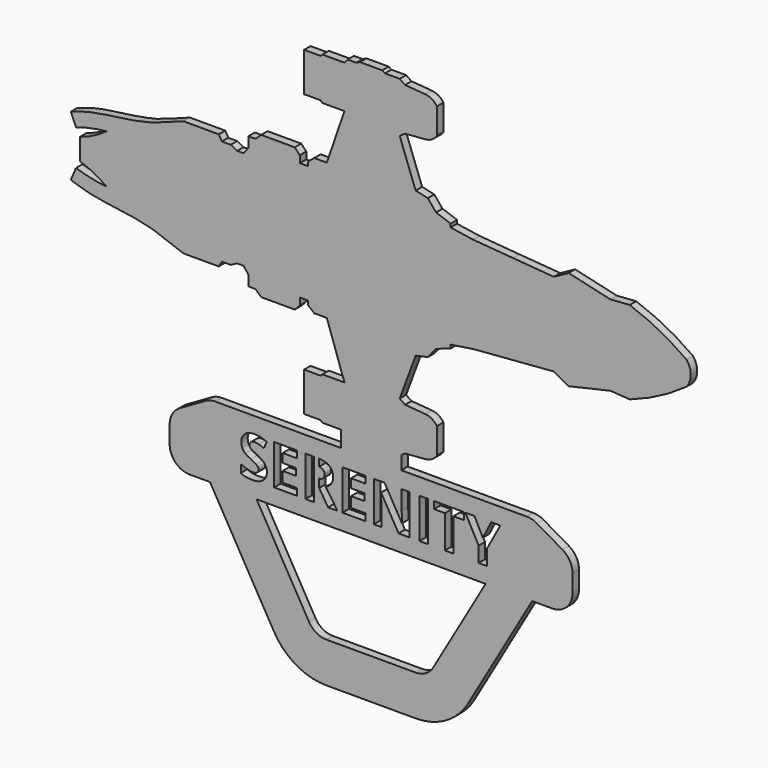
from build123d import *

# Parameters (mm, degrees)
F1_DEPTH       = 2
F2_SCALE       = 1.23
F3_W           = 2.1028645833
F3_H           = 9.9153645833
F4_DEPTH       = 2.46
F5_DEPTH       = 2.46
F6_W           = 1.3
F6_H           = 6.4041536976
F7_DEPTH       = 2.46
F8_R           = 5
F9_R           = 15
F10_W          = 0.46
F10_H          = 138.7505725531
F11_DEPTH      = 59.1700575959
F11_DEPTH_BACK = 94.4995160879


with BuildPart() as f1:
    # F0 (on Front) → F1 (new body)
    with BuildSketch(Plane.XZ):
        with BuildLine():
            Line((10.7373474166, 15.1693224907), (7.5251520611, 23.8336250186))
            Line((7.5251520611, 23.8336250186), (8.6105326191, 24.5744287968))
            Line((8.6105326191, 24.5744287968), (12.67447602, 24.8919036239))
            ThreePointArc((12.67447602, 24.8919036239), (14.0153339509, 25.3120222126), (15.0386774912, 26.2749176472))
            Line((15.0386774912, 26.2749176472), (15.0386774912, 31.5117314458))
            ThreePointArc((15.0386774912, 31.5117314458), (14.0153339509, 32.4746268804), (12.67447602, 32.8947454691))
            Line((12.67447602, 32.8947454691), (8.6105326191, 33.2122202963))
            Line((8.6105326191, 33.2122202963), (7.5251520611, 33.9530240744))
            Line((7.5251520611, 33.9530240744), (4.5539969578, 33.9530240744))
            Line((4.5539969578, 33.9530240744), (4.0063727647, 34.3166925013))
            Line((4.0063727647, 34.3166925013), (-0.4899038468, 34.3166925013))
            Line((-0.4899038468, 34.3166925013), (-1.2392831268, 33.9530240744))
            Line((-1.2392831268, 33.9530240744), (-2.9974428471, 33.9530240744))
            Line((-2.9974428471, 33.9530240744), (-3.57388868, 33.1910997629))
            Line((-3.57388868, 33.1910997629), (-8.0691609163, 33.1910997629))
            Line((-8.0691609163, 33.1910997629), (-8.4264199422, 32.8333564103))
            Line((-8.4264199422, 32.8333564103), (-11.7423711345, 32.8333564103))
            Line((-11.7423711345, 32.8333564103), (-11.7423711345, 24.9532926828))
            Line((-11.7423711345, 24.9532926828), (-8.4264199422, 24.9532926828))
            Line((-8.4264199422, 24.9532926828), (-8.0691609163, 24.5955493301))
            Line((-8.0691609163, 24.5955493301), (-3.57388868, 24.5955493301))
            Line((-3.57388868, 24.5955493301), (-3.9477050304, 23.6535612494))
            Line((-3.9477050304, 23.6535612494), (-7.1594528854, 14.2941614613))
            Line((-7.1594528854, 14.2941614613), (-9.6975984052, 14.2941614613))
            Line((-9.6975984052, 14.2941614613), (-10.9578995034, 13.2670113817))
            Line((-10.9578995034, 13.2670113817), (-10.9578995034, 12.4418511987))
            Line((-10.9578995034, 12.4418511987), (-12.6059856266, 12.4418511987))
            Line((-12.6059856266, 12.4418511987), (-12.6059856266, 13.8494772837))
            Line((-12.6059856266, 13.8494772837), (-13.6239212006, 14.9173317477))
            Line((-13.6239212006, 14.9173317477), (-20.4101577401, 14.9173317477))
            Line((-20.4101577401, 14.9173317477), (-21.5250384063, 13.8494772837))
            Line((-21.5250384063, 13.8494772837), (-22.9792315513, 13.8494772837))
            Line((-22.9792315513, 13.8494772837), (-22.9792315513, 11.7623079568))
            Line((-22.9792315513, 11.7623079568), (-23.9486955106, 10.5002978817))
            Line((-23.9486955106, 10.5002978817), (-25.2574682236, 10.5002978817))
            Line((-25.2574682236, 10.5002978817), (-26.5177711844, 11.1798420548))
            Line((-26.5177711844, 11.1798420548), (-28.3112749457, 11.1798420548))
            Line((-28.3112749457, 11.1798420548), (-28.9414264262, 12.2476965189))
            Line((-28.9414264262, 12.2476965189), (-36.0489413142, 12.2476965189))
            add(Edge.make_bspline(
                [(-36.0489413142, 12.2476965189), (-36.9714870428, 11.9100287517), (-38.8559028465, 11.2202998232), (-41.9498389834, 9.9896677035), (-45.1761258886, 9.2496922791), (-50.1095191572, 8.4853588999), (-53.6625514457, 8.0933726822), (-56.8420329859, 7.2580476877), (-58.1699424612, 6.7813820284), (-58.755479753, 6.5711978823)],
                knots=[0, 0, 0, 0, 0.135911485, 0.2776163201, 0.4220324789, 0.5969986511, 0.7486195456, 0.8891546199, 1, 1, 1, 1], degree=3))
            Line((-58.755479753, 6.5711978823), (-57.7301979065, 4.1353856213))
            ThreePointArc((-57.7301979065, 4.1353856213), (-54.6693550829, 4.9551265809), (-51.5387244523, 5.444908049))
            ThreePointArc((-51.5387244523, 5.444908049), (-54.1342780337, 3.8371195194), (-56.9573156536, 2.6742175687))
            Line((-56.9573156536, 2.6742175687), (-56.9573156536, 0.5219560699))
            Line((-56.9573156536, 0.5219560699), (-56.9573156536, -1.630305429))
            ThreePointArc((-56.9573156536, -1.630305429), (-54.1342780337, -2.7932073796), (-51.5387244523, -4.4009959092))
            ThreePointArc((-51.5387244523, -4.4009959092), (-54.6693550829, -3.9112144412), (-57.7301979065, -3.0914734816))
            Line((-57.7301979065, -3.0914734816), (-58.755479753, -5.5272857426))
            add(Edge.make_bspline(
                [(-36.0489413142, -11.2037843792), (-36.9714870428, -10.866116612), (-38.8559028465, -10.1763876835), (-41.9498389834, -8.9457555638), (-45.1761258886, -8.2057801394), (-50.1095191572, -7.4414467601), (-53.6625514457, -7.0494605425), (-56.8420329859, -6.214135548), (-58.1699424612, -5.7374698887), (-58.755479753, -5.5272857426)],
                knots=[0, 0, 0, 0, 0.135911485, 0.2776163201, 0.4220324789, 0.5969986511, 0.7486195456, 0.8891546199, 1, 1, 1, 1], degree=3))
            Line((-36.0489413142, -11.2037843792), (-28.9414264262, -11.2037843792))
            Line((-28.9414264262, -11.2037843792), (-28.3112749457, -10.1359299151))
            Line((-28.3112749457, -10.1359299151), (-26.5177711844, -10.1359299151))
            Line((-26.5177711844, -10.1359299151), (-25.2574682236, -9.4563857419))
            Line((-25.2574682236, -9.4563857419), (-23.9486955106, -9.4563857419))
            Line((-23.9486955106, -9.4563857419), (-22.9792315513, -10.7183958171))
            Line((-22.9792315513, -10.7183958171), (-22.9792315513, -12.8055651439))
            Line((-22.9792315513, -12.8055651439), (-21.5250384063, -12.8055651439))
            Line((-21.5250384063, -12.8055651439), (-20.4101577401, -13.873419608))
            Line((-20.4101577401, -13.873419608), (-13.6239212006, -13.873419608))
            Line((-13.6239212006, -13.873419608), (-12.6059856266, -12.8055651439))
            Line((-12.6059856266, -12.8055651439), (-12.6059856266, -11.397939059))
            Line((-12.6059856266, -11.397939059), (-10.9578995034, -11.397939059))
            Line((-10.9578995034, -11.397939059), (-10.9578995034, -12.223099242))
            Line((-10.9578995034, -12.223099242), (-9.6975984052, -13.2502493216))
            Line((-9.6975984052, -13.2502493216), (-7.1594528854, -13.2502493216))
            Line((-7.1594528854, -13.2502493216), (-3.9477050304, -22.6096491097))
            Line((-3.9477050304, -22.6096491097), (-3.57388868, -23.5516371904))
            Line((-3.57388868, -23.5516371904), (-8.0691609163, -23.5516371904))
            Line((-8.0691609163, -23.5516371904), (-8.4264199422, -23.909380543))
            Line((-8.4264199422, -23.909380543), (-11.7423711345, -23.909380543))
            Line((-11.7423711345, -23.909380543), (-11.7423711345, -31.7894442705))
            Line((-11.7423711345, -31.7894442705), (-8.4264199422, -31.7894442705))
            Line((-8.4264199422, -31.7894442705), (-8.0691609163, -32.1471876232))
            Line((-8.0691609163, -32.1471876232), (-3.57388868, -32.1471876232))
            Line((-3.57388868, -32.1471876232), (-2.9974428471, -32.9091119347))
            Line((-2.9974428471, -32.9091119347), (-1.2392831268, -32.9091119347))
            Line((-1.2392831268, -32.9091119347), (-0.4899038468, -33.2727803616))
            Line((-0.4899038468, -33.2727803616), (4.0063727647, -33.2727803616))
            Line((4.0063727647, -33.2727803616), (4.5539969578, -32.9091119347))
            Line((4.5539969578, -32.9091119347), (7.5251520611, -32.9091119347))
            Line((7.5251520611, -32.9091119347), (8.6105326191, -32.1683081565))
            Line((8.6105326191, -32.1683081565), (12.67447602, -31.8508333294))
            ThreePointArc((12.67447602, -31.8508333294), (14.0153339509, -31.4307147407), (15.0386774912, -30.4678193061))
            Line((15.0386774912, -30.4678193061), (15.0386774912, -25.2310055075))
            ThreePointArc((15.0386774912, -25.2310055075), (14.0153339509, -24.2681100729), (12.67447602, -23.8479914842))
            Line((12.67447602, -23.8479914842), (8.6105326191, -23.530516657))
            Line((8.6105326191, -23.530516657), (7.5251520611, -22.7897128789))
            Line((7.5251520611, -22.7897128789), (10.7373474166, -14.125410351))
            Line((10.7373474166, -14.125410351), (13.2051967084, -13.5762569262))
            Line((13.2051967084, -13.5762569262), (14.8504283279, -11.5855735494))
            Line((14.8504283279, -11.5855735494), (17.7981350571, -10.5559088988))
            Line((17.7981350571, -10.5559088988), (17.7981350571, -9.8694664193))
            Line((17.7981350571, -9.8694664193), (22.3225262016, -9.1830239398))
            Line((22.3225262016, -9.1830239398), (30.3363185376, -8.5365566192))
            Line((30.3363185376, -8.5365566192), (38.5700128973, -7.8834983287))
            Line((38.5700128973, -7.8834983287), (41.5863208473, -9.5161431236))
            Line((41.5863208473, -9.5161431236), (50.0276403394, -7.5836841715))
            Line((50.0276403394, -7.5836841715), (53.8872107863, -7.8582622809))
            ThreePointArc((53.8872107863, -7.8582622809), (59.8289497909, -5.3017052179), (65.3275698423, -1.8950317753))
            ThreePointArc((65.3275698423, -1.8950317753), (65.9684585009, -0.762507411), (66.1770328879, 0.5219560699))
            ThreePointArc((66.1770328879, 0.5219560699), (65.9684585009, 1.8064195507), (65.3275698423, 2.9389439151))
            ThreePointArc((65.3275698423, 2.9389439151), (59.8289497909, 6.3456173576), (53.8872107863, 8.9021744207))
            Line((53.8872107863, 8.9021744207), (50.0276403394, 8.6275963113))
            Line((50.0276403394, 8.6275963113), (41.5863208473, 10.5600552633))
            Line((41.5863208473, 10.5600552633), (38.5700128973, 8.9274104685))
            Line((38.5700128973, 8.9274104685), (30.3363185376, 9.5804687589))
            Line((30.3363185376, 9.5804687589), (22.3225262016, 10.2269360796))
            Line((22.3225262016, 10.2269360796), (17.7981350571, 10.9133785591))
            Line((17.7981350571, 10.9133785591), (17.7981350571, 11.5998210385))
            Line((17.7981350571, 11.5998210385), (14.8504283279, 12.6294856891))
            Line((14.8504283279, 12.6294856891), (13.2051967084, 14.6201690659))
            Line((13.2051967084, 14.6201690659), (10.7373474166, 15.1693224907))
        make_face()
    extrude(amount=F1_DEPTH)


with BuildPart() as f1_1:
    # F2: moved
    add(f1.part.scale(F2_SCALE).moved(Location((13.1001826003, 0.46, 0.3749702487))))

    # F3 (on face) → F4 (join, through all)
    with BuildSketch(Plane.XZ.offset(2)):
        Polygon((-13.1274666175, -61.1660705279), (-24.6744720013, -61.1660705279), (-4.4672125796, -96.1660705279), (34.9928345493, -96.1660705279), (55.200093971, -61.1660705279), (43.6530885872, -61.1660705279), (29.2193318574, -86.1660705279), (1.3062901123, -86.1660705279), align=None)
        Polygon((22.7628109849, -43.1660705279), (7.7628109849, -43.1660705279), (-24.6744720013, -43.1660705279), (-34.6744720013, -48.9395732198), (-34.6744720013, -61.1660705279), (-24.6744720013, -61.1660705279), (-13.1274666175, -61.1660705279), (43.6530885872, -61.1660705279), (55.200093971, -61.1660705279), (65.200093971, -61.1660705279), (65.200093971, -48.9395732198), (55.200093971, -43.1660705279), align=None)
        with BuildLine():
            add(Edge.make_bspline(
                [(-11.0891855429, -52.7747944862), (-10.5737775568, -53.4421121945), (-10.5737775568, -54.4121642779)],
                knots=[0, 0, 0, 1, 1, 1], degree=2))
            add(Edge.make_bspline(
                [(-10.5737775568, -54.4121642779), (-10.5737775568, -55.7554802501), (-11.5405744318, -56.529134764)],
                knots=[0, 0, 0, 1, 1, 1], degree=2))
            add(Edge.make_bspline(
                [(-11.5405744318, -56.529134764), (-12.5073713068, -57.3027892779), (-14.2282914457, -57.3027892779)],
                knots=[0, 0, 0, 1, 1, 1], degree=2))
            add(Edge.make_bspline(
                [(-14.2282914457, -57.3027892779), (-15.8168331124, -57.3027892779), (-17.0364511679, -56.7038309445)],
                knots=[0, 0, 0, 1, 1, 1], degree=2))
            Line((-17.0364511679, -56.7038309445), (-17.0364511679, -54.7507059445))
            add(Edge.make_bspline(
                [(-17.0364511679, -54.7507059445), (-16.0338470013, -55.1999246945), (-15.3383174874, -55.3822163612)],
                knots=[0, 0, 0, 1, 1, 1], degree=2))
            add(Edge.make_bspline(
                [(-15.3383174874, -55.3822163612), (-14.6427879735, -55.5645080279), (-14.065531029, -55.5645080279)],
                knots=[0, 0, 0, 1, 1, 1], degree=2))
            add(Edge.make_bspline(
                [(-14.065531029, -55.5645080279), (-13.3754268624, -55.5645080279), (-13.0054181818, -55.3008361529)],
                knots=[0, 0, 0, 1, 1, 1], degree=2))
            add(Edge.make_bspline(
                [(-13.0054181818, -55.3008361529), (-12.6354095013, -55.0371642779), (-12.6354095013, -54.5141608056)],
                knots=[0, 0, 0, 1, 1, 1], degree=2))
            add(Edge.make_bspline(
                [(-12.6354095013, -54.5141608056), (-12.6354095013, -54.2233621945), (-12.7981699179, -53.9954976112)],
                knots=[0, 0, 0, 1, 1, 1], degree=2))
            add(Edge.make_bspline(
                [(-12.7981699179, -53.9954976112), (-12.9609303346, -53.7676330279), (-13.2766855429, -53.5582146251)],
                knots=[0, 0, 0, 1, 1, 1], degree=2))
            add(Edge.make_bspline(
                [(-13.2766855429, -53.5582146251), (-13.5924407513, -53.3487962223), (-14.5624928346, -52.886556639)],
                knots=[0, 0, 0, 1, 1, 1], degree=2))
            add(Edge.make_bspline(
                [(-14.5624928346, -52.886556639), (-15.4696108901, -52.4590392779), (-15.9242549874, -52.066244139)],
                knots=[0, 0, 0, 1, 1, 1], degree=2))
            add(Edge.make_bspline(
                [(-15.9242549874, -52.066244139), (-16.3788990846, -51.6734490001), (-16.6501664457, -51.1504455279)],
                knots=[0, 0, 0, 1, 1, 1], degree=2))
            add(Edge.make_bspline(
                [(-16.6501664457, -51.1504455279), (-16.9214338068, -50.6274420556), (-16.9214338068, -49.9308274723)],
                knots=[0, 0, 0, 1, 1, 1], degree=2))
            add(Edge.make_bspline(
                [(-16.9214338068, -49.9308274723), (-16.9214338068, -48.6135531668), (-16.0295067235, -47.8616000418)],
                knots=[0, 0, 0, 1, 1, 1], degree=2))
            add(Edge.make_bspline(
                [(-16.0295067235, -47.8616000418), (-15.1375796401, -47.1096469168), (-13.5642289457, -47.1096469168)],
                knots=[0, 0, 0, 1, 1, 1], degree=2))
            add(Edge.make_bspline(
                [(-13.5642289457, -47.1096469168), (-12.7916595013, -47.1096469168), (-12.0896195707, -47.2919385834)],
                knots=[0, 0, 0, 1, 1, 1], degree=2))
            add(Edge.make_bspline(
                [(-12.0896195707, -47.2919385834), (-11.3875796401, -47.4742302501), (-10.6215206124, -47.8062615001)],
                knots=[0, 0, 0, 1, 1, 1], degree=2))
            Line((-10.6215206124, -47.8062615001), (-11.2986039457, -49.4425462223))
            add(Edge.make_bspline(
                [(-11.2986039457, -49.4425462223), (-12.092874779, -49.117025389), (-12.6115379735, -48.9879021251)],
                knots=[0, 0, 0, 1, 1, 1], degree=2))
            add(Edge.make_bspline(
                [(-12.6115379735, -48.9879021251), (-13.1302011679, -48.8587788612), (-13.6315032513, -48.8587788612)],
                knots=[0, 0, 0, 1, 1, 1], degree=2))
            add(Edge.make_bspline(
                [(-13.6315032513, -48.8587788612), (-14.2282914457, -48.8587788612), (-14.5473018624, -49.136556639)],
                knots=[0, 0, 0, 1, 1, 1], degree=2))
            add(Edge.make_bspline(
                [(-14.5473018624, -49.136556639), (-14.866312279, -49.4143344168), (-14.866312279, -49.8613830279)],
                knots=[0, 0, 0, 1, 1, 1], degree=2))
            add(Edge.make_bspline(
                [(-14.866312279, -49.8613830279), (-14.866312279, -50.1391608056), (-14.7371890151, -50.3464090695)],
                knots=[0, 0, 0, 1, 1, 1], degree=2))
            add(Edge.make_bspline(
                [(-14.7371890151, -50.3464090695), (-14.6080657513, -50.5536573334), (-14.3270327651, -50.7467996945)],
                knots=[0, 0, 0, 1, 1, 1], degree=2))
            add(Edge.make_bspline(
                [(-14.3270327651, -50.7467996945), (-14.045999779, -50.9399420556), (-12.9956525568, -51.441244139)],
                knots=[0, 0, 0, 1, 1, 1], degree=2))
            add(Edge.make_bspline(
                [(-12.9956525568, -51.441244139), (-11.604593529, -52.1074767779), (-11.0891855429, -52.7747944862)],
                knots=[0, 0, 0, 1, 1, 1], degree=2))
        make_face(mode=Mode.SUBTRACT)
        Polygon((-3.0672671401, -55.4299594168), (-3.0672671401, -57.1660705279), (-8.7769025568, -57.1660705279), (-8.7769025568, -47.2507059445), (-3.0672671401, -47.2507059445), (-3.0672671401, -48.9737962223), (-6.6740379735, -48.9737962223), (-6.6740379735, -51.1504455279), (-3.3168331124, -51.1504455279), (-3.3168331124, -52.8735358056), (-6.6740379735, -52.8735358056), (-6.6740379735, -55.4299594168), align=None, mode=Mode.SUBTRACT)
        with BuildLine():
            Line((2.2213613321, -53.3618170556), (1.1037398043, -53.3618170556))
            Line((1.1037398043, -53.3618170556), (1.1037398043, -57.1660705279))
            Line((1.1037398043, -57.1660705279), (-0.999124779, -57.1660705279))
            Line((-0.999124779, -57.1660705279), (-0.999124779, -47.2507059445))
            Line((-0.999124779, -47.2507059445), (1.8893300821, -47.2507059445))
            add(Edge.make_bspline(
                [(1.8893300821, -47.2507059445), (3.9118995265, -47.2507059445), (4.8808665404, -47.9863830279)],
                knots=[0, 0, 0, 1, 1, 1], degree=2))
            add(Edge.make_bspline(
                [(4.8808665404, -47.9863830279), (5.8498335543, -48.7220601112), (5.8498335543, -50.2216260834)],
                knots=[0, 0, 0, 1, 1, 1], degree=2))
            add(Edge.make_bspline(
                [(5.8498335543, -50.2216260834), (5.8498335543, -51.0961920556), (5.3691477904, -51.7776156668)],
                knots=[0, 0, 0, 1, 1, 1], degree=2))
            add(Edge.make_bspline(
                [(5.3691477904, -51.7776156668), (4.8884620265, -52.4590392779), (4.0052154987, -52.8453240001)],
                knots=[0, 0, 0, 1, 1, 1], degree=2))
            add(Edge.make_bspline(
                [(4.0052154987, -52.8453240001), (6.2447988321, -56.1895080279), (6.9218821654, -57.1660705279)],
                knots=[0, 0, 0, 1, 1, 1], degree=2))
            Line((6.9218821654, -57.1660705279), (4.5889828599, -57.1660705279))
            Line((4.5889828599, -57.1660705279), (2.2213613321, -53.3618170556))
        make_face(mode=Mode.SUBTRACT)
        Polygon((13.8793474432, -55.4299594168), (13.8793474432, -57.1660705279), (8.1697120265, -57.1660705279), (8.1697120265, -47.2507059445), (13.8793474432, -47.2507059445), (13.8793474432, -48.9737962223), (10.2725766099, -48.9737962223), (10.2725766099, -51.1504455279), (13.629781471, -51.1504455279), (13.629781471, -52.8735358056), (10.2725766099, -52.8735358056), (10.2725766099, -55.4299594168), align=None, mode=Mode.SUBTRACT)
        with BuildLine():
            Line((24.743062721, -47.2507059445), (24.743062721, -57.1660705279))
            Line((24.743062721, -57.1660705279), (22.0716217487, -57.1660705279))
            Line((22.0716217487, -57.1660705279), (17.7573856376, -49.6660705279))
            Line((17.7573856376, -49.6660705279), (17.6966217487, -49.6660705279))
            add(Edge.make_bspline(
                [(17.6966217487, -49.6660705279), (17.8268300821, -51.6517476112), (17.8268300821, -52.5002719168)],
                knots=[0, 0, 0, 1, 1, 1], degree=2))
            Line((17.8268300821, -52.5002719168), (17.8268300821, -57.1660705279))
            Line((17.8268300821, -57.1660705279), (15.9474898043, -57.1660705279))
            Line((15.9474898043, -57.1660705279), (15.9474898043, -47.2507059445))
            Line((15.9474898043, -47.2507059445), (18.5993995265, -47.2507059445))
            Line((18.5993995265, -47.2507059445), (22.9049550821, -54.6769212223))
            Line((22.9049550821, -54.6769212223), (22.9526981376, -54.6769212223))
            add(Edge.make_bspline(
                [(22.9526981376, -54.6769212223), (22.8507016099, -52.7433274723), (22.8507016099, -51.9447163612)],
                knots=[0, 0, 0, 1, 1, 1], degree=2))
            Line((22.8507016099, -51.9447163612), (22.8507016099, -47.2507059445))
            Line((22.8507016099, -47.2507059445), (24.743062721, -47.2507059445))
        make_face(mode=Mode.SUBTRACT)
        with Locations((28.2901547349, -52.2083882362)):
            Rectangle(F3_W, F3_H, mode=Mode.SUBTRACT)
        Polygon((35.6632016099, -48.999837889), (35.6632016099, -57.1660705279), (33.5603370265, -57.1660705279), (33.5603370265, -48.999837889), (30.8671946654, -48.999837889), (30.8671946654, -47.2507059445), (38.3541738321, -47.2507059445), (38.3541738321, -48.999837889), align=None, mode=Mode.SUBTRACT)
        Polygon((40.9105974432, -47.2507059445), (42.965718971, -51.3327371945), (45.0338613321, -47.2507059445), (47.2994863321, -47.2507059445), (44.0095557765, -53.3075635834), (44.0095557765, -57.1660705279), (41.9218821654, -57.1660705279), (41.9218821654, -53.374837889), (38.6319516099, -47.2507059445), align=None, mode=Mode.SUBTRACT)
        Polygon((8.704299524, -39.1660705279), (7.7628109849, -39.1660705279), (7.7628109849, -43.1660705279), (22.7628109849, -43.1660705279), (22.7628109849, -39.8256587643), (22.3561196355, -40.103237431), (18.7015988585, -40.103237431), (18.0280211009, -40.5505495961), (12.4976008688, -40.5505495961), (11.5758643544, -40.103237431), (9.4133278984, -40.103237431), align=None)
    extrude(amount=-F4_DEPTH)



with BuildPart() as f5:
    # F3 (on face) → F5 (new body, through all)
    with BuildSketch(Plane.XZ.offset(2)):
        with BuildLine():
            Line((1.1037398043, -48.9737962223), (1.1037398043, -51.6517476112))
            Line((1.1037398043, -51.6517476112), (1.7808231376, -51.6517476112))
            add(Edge.make_bspline(
                [(1.7808231376, -51.6517476112), (2.7790870265, -51.6517476112), (3.2532623737, -51.3197163612)],
                knots=[0, 0, 0, 1, 1, 1], degree=2))
            add(Edge.make_bspline(
                [(3.2532623737, -51.3197163612), (3.727437721, -50.9876851112), (3.727437721, -50.2758795556)],
                knots=[0, 0, 0, 1, 1, 1], degree=2))
            add(Edge.make_bspline(
                [(3.727437721, -50.2758795556), (3.727437721, -49.5705844168), (3.2424116793, -49.2721903195)],
                knots=[0, 0, 0, 1, 1, 1], degree=2))
            add(Edge.make_bspline(
                [(3.2424116793, -49.2721903195), (2.7573856376, -48.9737962223), (1.7417606376, -48.9737962223)],
                knots=[0, 0, 0, 1, 1, 1], degree=2))
            Line((1.7417606376, -48.9737962223), (1.1037398043, -48.9737962223))
        make_face()
    extrude(amount=-F5_DEPTH)


with BuildPart() as f1_2:
    add(f1_1.part)

    add(f5.part)  # F7 merges F5
    # F6 (on face) → F7 (join, through all)
    with BuildSketch(Plane.XZ.offset(2)):
        with Locations((1.7537398043, -50.4527827933)):
            Rectangle(F6_W, F6_H)
    extrude(amount=-F7_DEPTH)

    # F8
    f8_edges = [f1_2.edges().sort_by_distance(p)[0] for p in [
        (-24.674472, -0.77, -43.166071),
        (-34.674472, -0.77, -48.939573),
        (-34.674472, -0.77, -61.166071),
        (65.200094, -0.77, -48.939573),
        (65.200094, -0.77, -61.166071),
        (55.200094, -0.77, -43.166071),
        (1.30629, -0.77, -86.166071),
        (29.219332, -0.77, -86.166071),
    ]]
    fillet(f8_edges, radius=F8_R)

    # F9
    f9_edges = [f1_2.edges().sort_by_distance(p)[0] for p in [
        (-4.467213, -0.77, -96.166071),
        (34.992835, -0.77, -96.166071),
    ]]
    fillet(f9_edges, radius=F9_R)

    # F10 (on Right) → F11 (cut, two sides)
    with BuildSketch(Plane.YZ) as f11_sk:
        with Locations((0.23, -26.7907842513)):
            Rectangle(F10_W, F10_H)
    extrude(amount=-F11_DEPTH, mode=Mode.SUBTRACT)
    extrude(f11_sk.sketch, amount=F11_DEPTH_BACK, mode=Mode.SUBTRACT)


solid = f1_2.part
